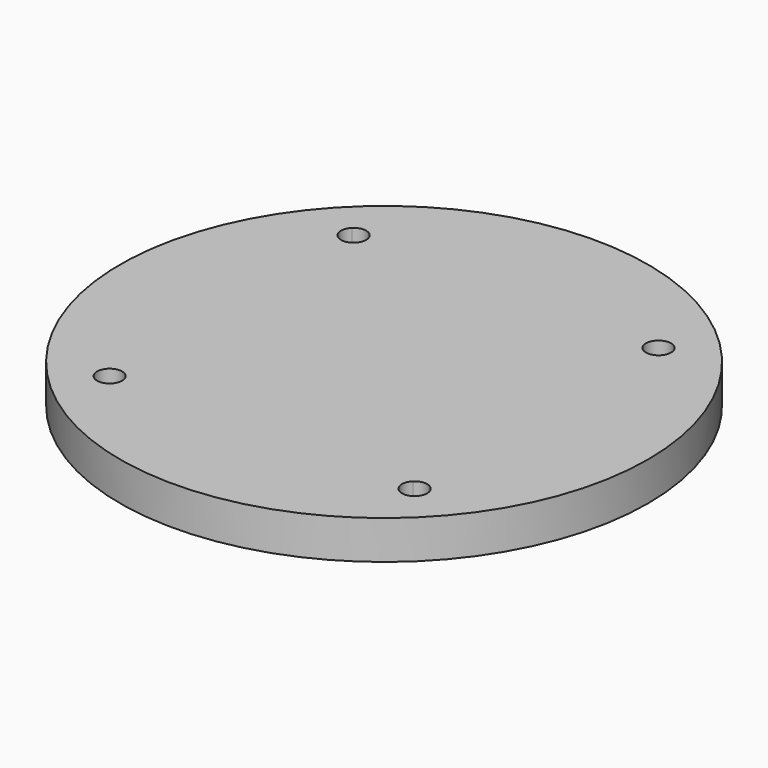
from build123d import *

# Parameters (mm, degrees)
F0_R     = 34.671
F1_DEPTH = 5.08
F3_DEPTH = 25.4
F4_SIZE2 = 1.778
F4_SIZE  = 1.27


with BuildPart() as f1:
    # F0 (on Top) → F1 (new body)
    with BuildSketch(Plane.XY):
        Circle(F0_R)
    extrude(amount=F1_DEPTH)

    # F2 (on face) → F3 (cut)
    with BuildSketch(Plane.XY.offset(5.08)):
        with BuildLine():
            ThreePointArc((21.1934044457, 21.1934044457), (18.8585378542, 21.1934044457), (18.8585378542, 18.8585378542))
            Line((18.8585378542, 18.8585378542), (21.1934044457, 21.1934044457))
        make_face()
        with BuildLine():
            Line((21.1934044457, 21.1934044457), (18.8585378542, 18.8585378542))
            ThreePointArc((18.8585378542, 18.8585378542), (20.6577814968, 18.5006460418), (21.67697115, 20.02597115))
            ThreePointArc((21.67697115, 20.02597115), (21.5512962582, 20.6577814968), (21.1934044457, 21.1934044457))
        make_face()
        with BuildLine():
            ThreePointArc((-18.37497115, -20.02597115), (-18.5006460418, -19.3941608031), (-18.8585378542, -18.8585378542))
            Line((-18.8585378542, -18.8585378542), (-21.1934044457, -21.1934044457))
            ThreePointArc((-21.1934044457, -21.1934044457), (-19.3941608031, -21.5512962582), (-18.37497115, -20.02597115))
        make_face()
        with BuildLine():
            Line((-21.1934044457, -21.1934044457), (-18.8585378542, -18.8585378542))
            ThreePointArc((-18.8585378542, -18.8585378542), (-21.1934044457, -18.8585378542), (-21.1934044457, -21.1934044457))
        make_face()
        with BuildLine():
            ThreePointArc((-21.1934044457, 21.1934044457), (-21.1934044457, 18.8585378542), (-18.8585378542, 18.8585378542))
            Line((-18.8585378542, 18.8585378542), (-21.1934044457, 21.1934044457))
        make_face()
        with BuildLine():
            Line((-21.1934044457, 21.1934044457), (-18.8585378542, 18.8585378542))
            ThreePointArc((-18.8585378542, 18.8585378542), (-18.5006460418, 19.3941608031), (-18.37497115, 20.02597115))
            ThreePointArc((-18.37497115, 20.02597115), (-19.3941608031, 21.5512962582), (-21.1934044457, 21.1934044457))
        make_face()
        with BuildLine():
            ThreePointArc((21.67697115, -20.02597115), (20.6577814968, -18.5006460418), (18.8585378542, -18.8585378542))
            Line((18.8585378542, -18.8585378542), (21.1934044457, -21.1934044457))
            ThreePointArc((21.1934044457, -21.1934044457), (21.5512962582, -20.6577814968), (21.67697115, -20.02597115))
        make_face()
        with BuildLine():
            Line((21.1934044457, -21.1934044457), (18.8585378542, -18.8585378542))
            ThreePointArc((18.8585378542, -18.8585378542), (18.8585378542, -21.1934044457), (21.1934044457, -21.1934044457))
        make_face()
    extrude(amount=-F3_DEPTH, mode=Mode.SUBTRACT)

    # F4
    f4_edges = [f1.edges().sort_by_distance(p)[0] for p in [
        (-21.193404, -21.193404, 0),
        (21.193404, -21.193404, 0),
        (21.193404, 21.193404, 0),
        (-21.193404, 21.193404, 0),
    ]]
    chamfer(f4_edges, length=F4_SIZE, length2=F4_SIZE2)


solid = f1.part
